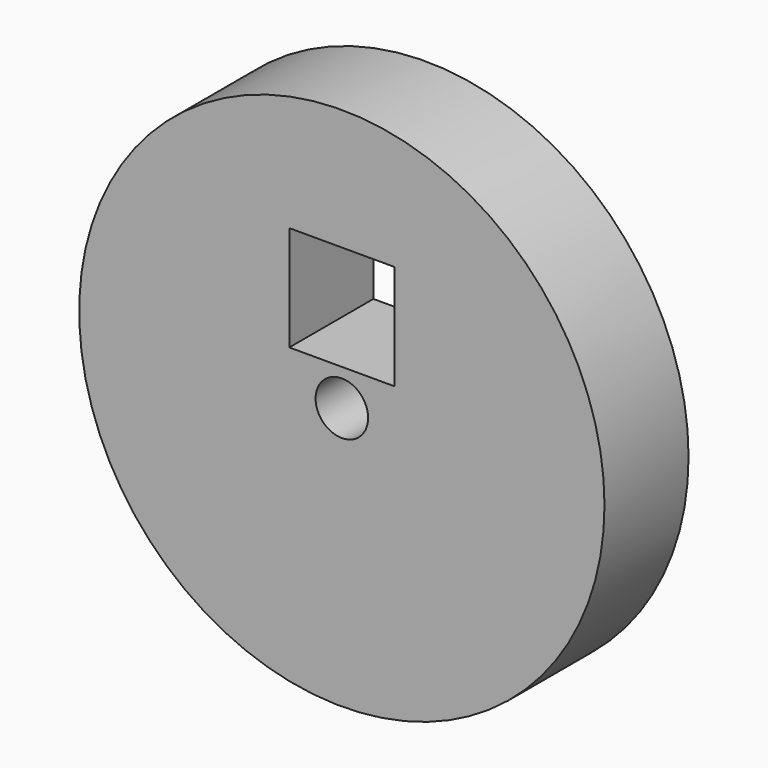
from build123d import *

# Parameters (mm, degrees)
F0_R     = 127
F0_R_2   = 12.7
F1_DEPTH = 25.4
F2_W     = 50.8
F2_H     = 50.8
F3_DEPTH = 25.4


with BuildPart() as f1:
    # F0 (on Front) → F1 (new body, symmetric)
    with BuildSketch(Plane.XZ):
        Circle(F0_R)
        Circle(F0_R_2, mode=Mode.SUBTRACT)
    extrude(amount=F1_DEPTH, both=True)

    # F2 (on Front) → F3 (cut, symmetric)
    with BuildSketch(Plane.XZ):
        with Locations((0, 43.010666)):
            Rectangle(F2_W, F2_H)
    extrude(amount=F3_DEPTH, both=True, mode=Mode.SUBTRACT)


solid = f1.part
